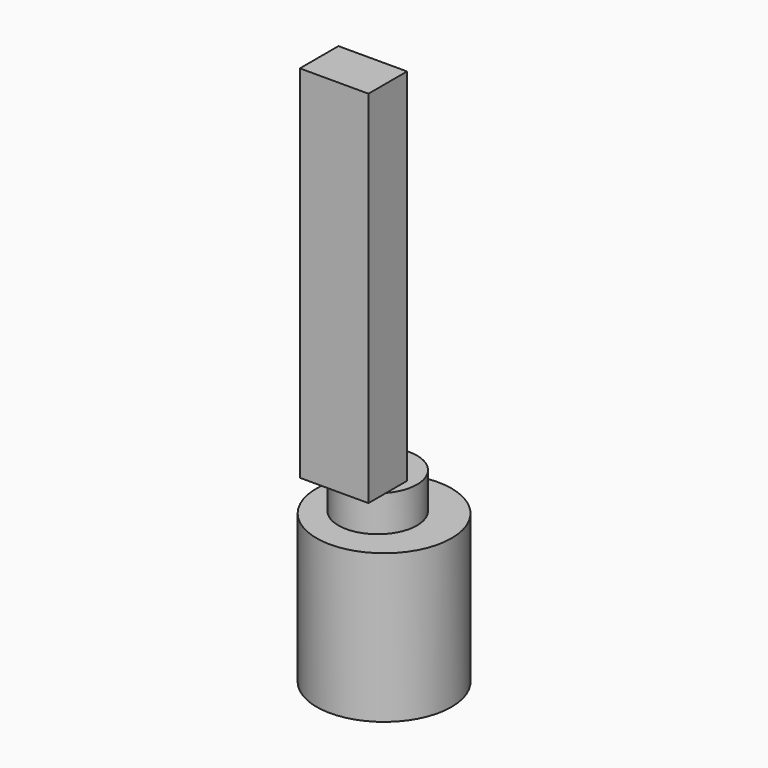
from build123d import *

# Parameters (mm, degrees)
F0_R     = 47.56572
F1_DEPTH = 104.648
F2_R     = 27.682739
F3_DEPTH = 25.4
F4_W     = 48.33358
F4_H     = 33.992838
F5_DEPTH = 254


with BuildPart() as f1:
    # F0 (on Top) → F1 (new body)
    with BuildSketch(Plane.XY):
        Circle(F0_R)
    extrude(amount=F1_DEPTH)

    # F2 (on face) → F3 (join)
    with BuildSketch(Plane.XY.offset(104.648)):
        with Locations((-4.464226, 0)):
            Circle(F2_R)
    extrude(amount=F3_DEPTH)

    # F4 (on face) → F5 (join)
    with BuildSketch(Plane.XY.offset(130.048)):
        with Locations((-7.980175, -16.996419)):
            Rectangle(F4_W, F4_H)
    extrude(amount=F5_DEPTH)


solid = f1.part
